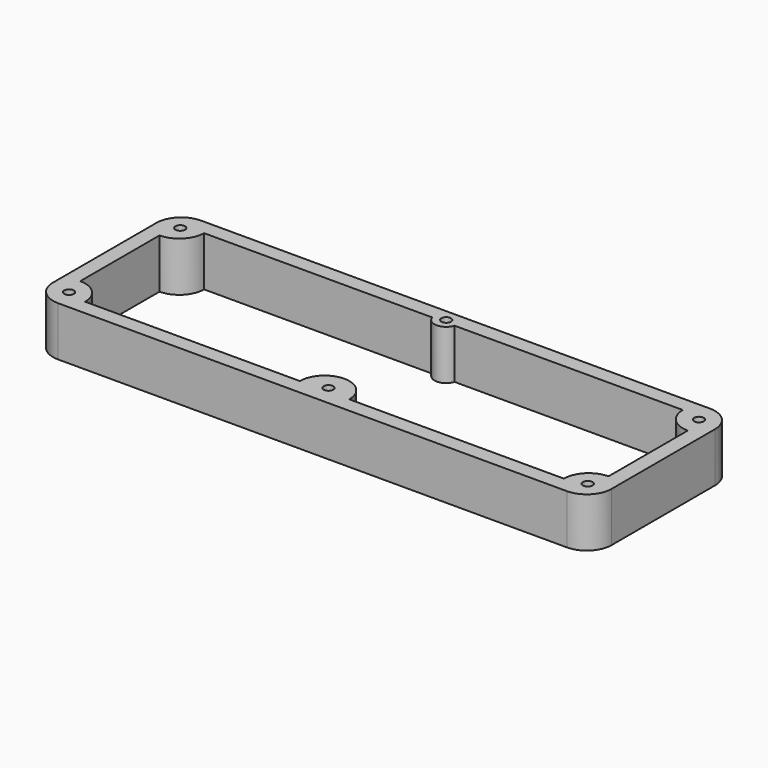
from build123d import *

# Parameters (mm, degrees)
F0_R     = 1.75
F1_DEPTH = 18


with BuildPart() as f1:
    # F0 (on Top) → F1 (new body)
    with BuildSketch(Plane.XY):
        with BuildLine():
            Line((-92.5, -32.5), (92.5, -32.5))
            ThreePointArc((92.5, -32.5), (98.863961, -29.863961), (101.5, -23.5))
            Line((101.5, -23.5), (101.5, 23.5))
            ThreePointArc((101.5, 23.5), (98.863961, 29.863961), (92.5, 32.5))
            Line((92.5, 32.5), (-92.5, 32.5))
            ThreePointArc((-92.5, 32.5), (-98.863961, 29.863961), (-101.5, 23.5))
            Line((-101.5, 23.5), (-101.5, -23.5))
            ThreePointArc((-101.5, -23.5), (-98.863961, -29.863961), (-92.5, -32.5))
        make_face()
        with Locations((-94.25, -25.25)):
            Circle(F0_R, mode=Mode.SUBTRACT)
        with Locations((0, -25.25)):
            Circle(F0_R, mode=Mode.SUBTRACT)
        with Locations((94.25, -25.25)):
            Circle(F0_R, mode=Mode.SUBTRACT)
        with Locations((-94.25, 25.25)):
            Circle(F0_R, mode=Mode.SUBTRACT)
        with BuildLine():
            ThreePointArc((-87, -27), (-89.636039, -20.636039), (-96, -18))
            Line((-96, -18), (-96, 18))
            ThreePointArc((-96, 18), (-89.636039, 20.636039), (-87, 27))
            Line((-87, 27), (-4.062019, 27))
            ThreePointArc((-4.062019, 27), (0, 24), (4.062019, 27))
            Line((4.062019, 27), (87, 27))
            ThreePointArc((87, 27), (89.636039, 20.636039), (96, 18))
            Line((96, 18), (96, -18))
            ThreePointArc((96, -18), (89.636039, -20.636039), (87, -27))
            Line((87, -27), (9, -27))
            ThreePointArc((9, -27), (0, -18), (-9, -27))
            Line((-9, -27), (-87, -27))
        make_face(mode=Mode.SUBTRACT)
        with Locations((0, 28.25)):
            Circle(F0_R, mode=Mode.SUBTRACT)
        with Locations((94.25, 25.25)):
            Circle(F0_R, mode=Mode.SUBTRACT)
    extrude(amount=F1_DEPTH)


solid = f1.part
